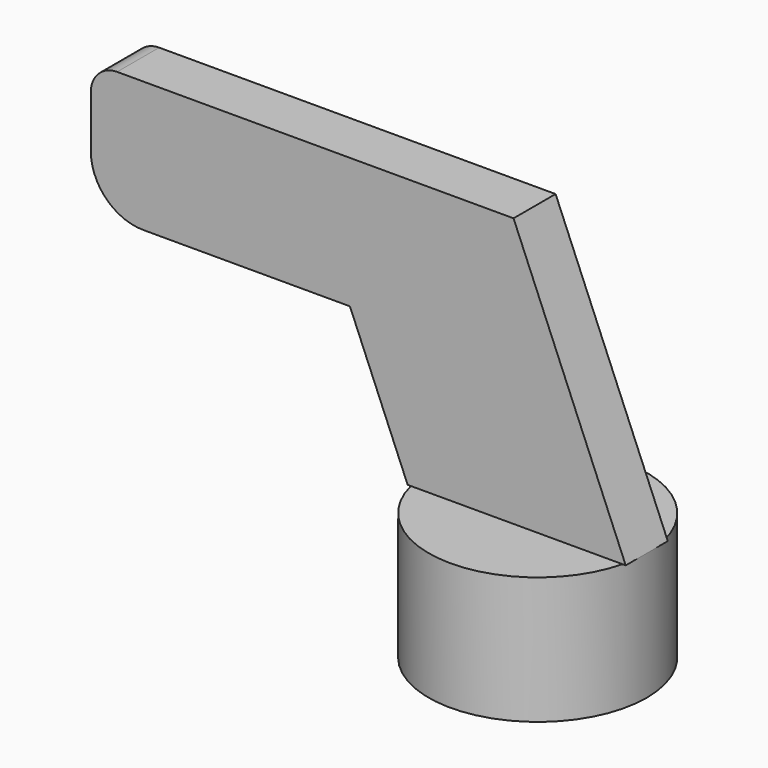
from build123d import *

# Parameters (mm, degrees)
F1_DEPTH = 6.35
F2_R     = 26.3416
F3_DEPTH = 30.734


with BuildPart() as f1:
    # F0 (on Front) → F1 (new body, symmetric)
    with BuildSketch(Plane.XZ):
        with BuildLine():
            Line((-24.249891, 0), (28.433308, 0))
            Line((28.433308, 0), (1.333008, 64.996654))
            Line((1.333008, 64.996654), (-94.431851, 64.996654))
            ThreePointArc((-94.431851, 64.996654), (-98.921979, 63.136782), (-100.781851, 58.646654))
            Line((-100.781851, 58.646654), (-100.781851, 46.1244))
            ThreePointArc((-100.781851, 46.1244), (-97.062107, 37.144144), (-88.081851, 33.4244))
            Line((-88.081851, 33.4244), (-38.186166, 33.4244))
            Line((-38.186166, 33.4244), (-24.249891, 0))
        make_face()
    extrude(amount=F1_DEPTH, both=True)

    # F2 (on Top) → F3 (join)
    with BuildSketch(Plane.XY):
        with Locations((2.091708, 0)):
            Circle(F2_R)
    extrude(amount=-F3_DEPTH)


solid = f1.part
